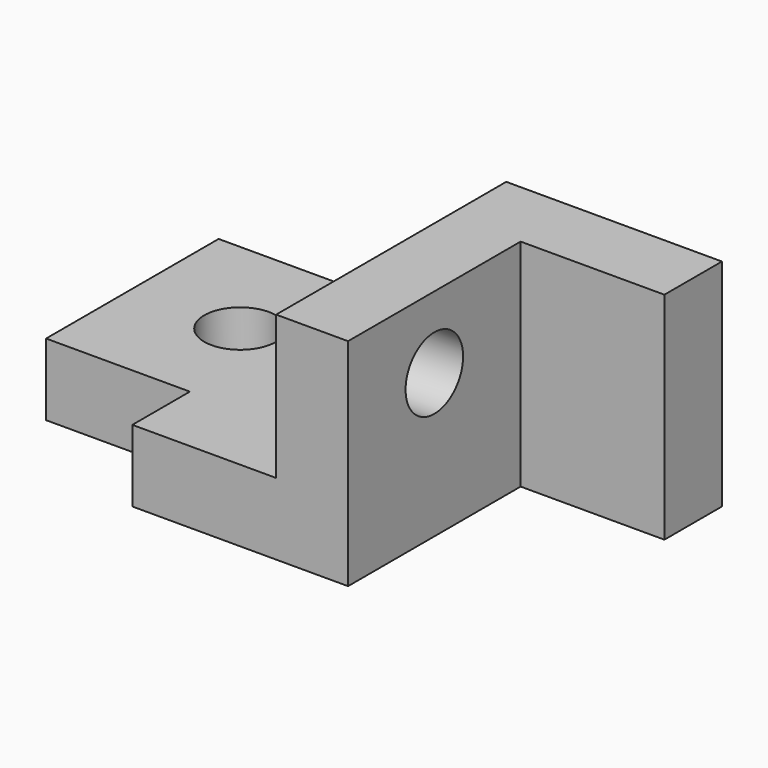
from build123d import *

# Parameters (mm, degrees)
F1_DEPTH = 40
F2_W     = 10
F2_H     = 30
F3_DEPTH = 20
F4_R     = 5
F5_DEPTH = 30.001
F6_W     = 30
F6_H     = 10
F7_DEPTH = 20
F8_R     = 5
F9_DEPTH = 10.001


with BuildPart() as f1:
    # F0 (on Front) → F1 (new body)
    with BuildSketch(Plane.XZ):
        Polygon((-5.380323, 14.753425), (-5.380323, 4.753425), (24.619677, 4.753425), (24.619677, 34.753425), (14.619677, 34.753425), (14.619677, 14.753425), align=None)
    extrude(amount=-F1_DEPTH)

    # F2 (on face) → F3 (join)
    with BuildSketch(Plane.YZ.offset(24.619677)):
        with Locations((35, 19.753425)):
            Rectangle(F2_W, F2_H)
    extrude(amount=F3_DEPTH)

    # F4 (on face) → F5 (cut, through all)
    with BuildSketch(Plane.YZ.offset(24.619677)):
        with Locations((15, 24.753425)):
            Circle(F4_R)
    extrude(amount=-F5_DEPTH, mode=Mode.SUBTRACT)

    # F6 (on face) → F7 (join)
    with BuildSketch(Plane(origin=(-5.380323, 0, 0), x_dir=(0, -1, 0), z_dir=(-1, 0, 0))):
        with Locations((-25, 9.753425)):
            Rectangle(F6_W, F6_H)
    extrude(amount=F7_DEPTH)

    # F8 (on face) → F9 (cut, through all)
    with BuildSketch(Plane.XY.offset(14.753425)):
        with Locations((-10.380323, 25)):
            Circle(F8_R)
    extrude(amount=-F9_DEPTH, mode=Mode.SUBTRACT)


solid = f1.part
